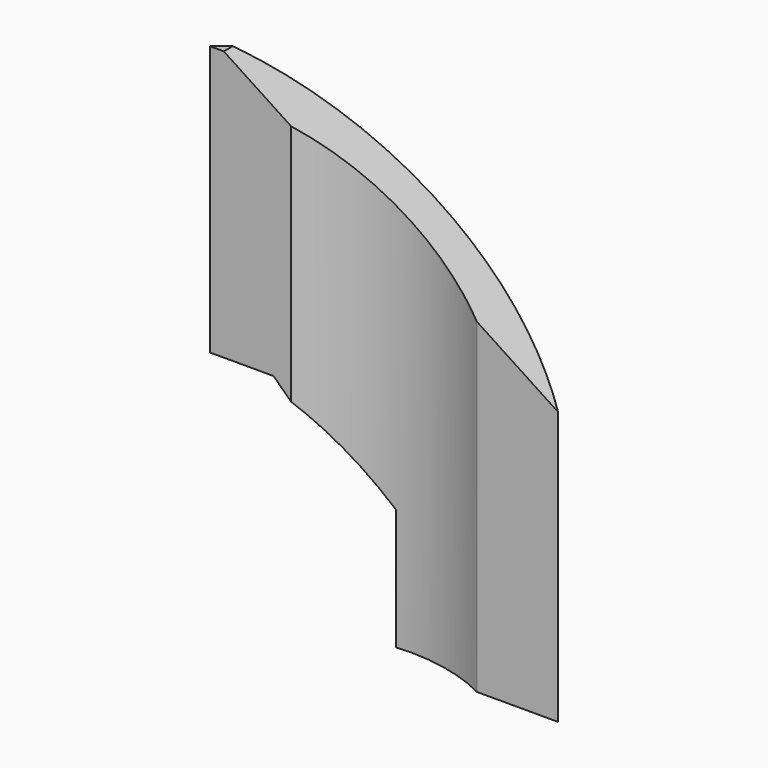
from build123d import *

# Parameters (mm, degrees)
F1_DEPTH = 76.2
F3_DEPTH = 25
F5_DEPTH = 25


with BuildPart() as f1:
    # F0 (on Top) → F1 (new body)
    with BuildSketch(Plane.XY):
        with BuildLine():
            Line((-29.137894, 0), (-16.437894, 0))
            ThreePointArc((-16.437894, 0), (-2.614066, 4.412701), (11.562106, 1.313299))
            Line((11.562106, 1.313299), (24.262106, 1.313299))
            ThreePointArc((24.262106, 1.313299), (-2.67384, 10.250454), (-29.137894, 0))
        make_face()
    extrude(amount=F1_DEPTH)

    # F2 (on Front) → F3 (cut)
    with BuildSketch(Plane.XZ):
        Polygon((25.847133, 41.631106), (24.586304, 78.813426), (-30.959083, 78.813426), align=None)
    extrude(amount=-F3_DEPTH, mode=Mode.SUBTRACT)

    # F4 (on Front) → F5 (cut)
    with BuildSketch(Plane.XZ):
        Polygon((-34.645859, -3.21119), (-3.547264, -3.21119), (-3.547264, 18.966397), (-19.190293, 34.029976), (-34.645859, 34.029976), align=None)
    extrude(amount=-F5_DEPTH, mode=Mode.SUBTRACT)


solid = f1.part
